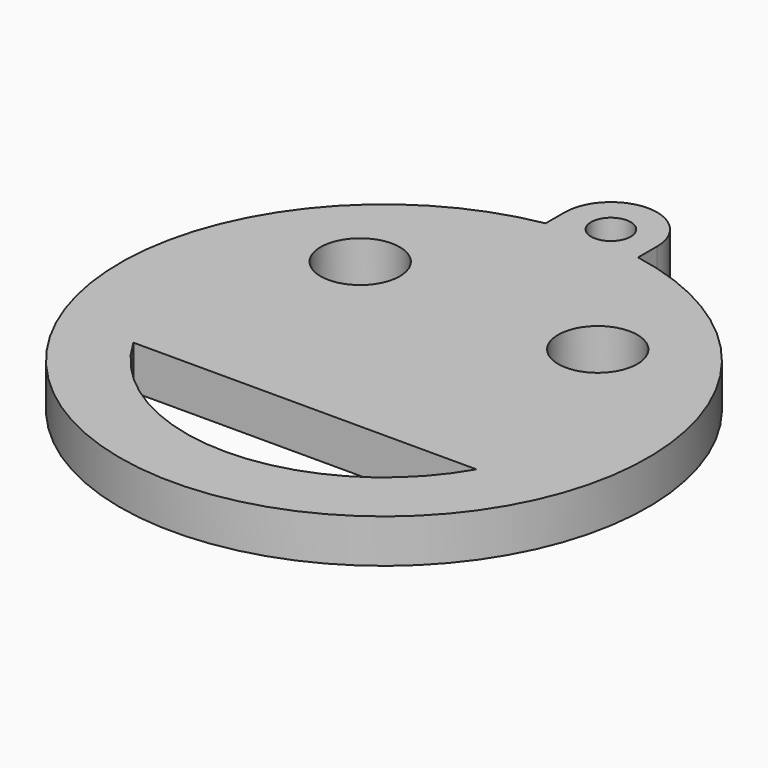
from build123d import *

# Parameters (mm, degrees)
EXTRUDE_DEPTH   = 3.3
SKETCH001_R     = 1.5
POCKET_DEPTH    = 3.301
SKETCH002_R     = 3
POCKET001_DEPTH = 5


with BuildPart() as part:
    # Sketch → Extrude (new body)
    with BuildSketch(Plane.XY):
        with BuildLine():
            ThreePointArc((3.5, 21.5), (0, 25), (-3.5, 21.5))
            Line((-3.5, 21.5), (-3.5, 19.691369))
            ThreePointArc((-3.5, 19.691369), (0, -20), (3.5, 19.691369))
            Line((3.5, 19.691369), (3.5, 21.5))
        make_face()
    extrude(amount=EXTRUDE_DEPTH)

    # Sketch001 → Pocket (cut, through all)
    with BuildSketch(Plane.XY.offset(3.3)):
        with Locations((0, 21.5)):
            Circle(SKETCH001_R)
    extrude(amount=-POCKET_DEPTH, mode=Mode.SUBTRACT)

    # Sketch002 → Pocket001 (cut)
    with BuildSketch(Plane.XY.offset(3.3)):
        with Locations((-9, 9)):
            Circle(SKETCH002_R)
        with Locations((9, 9)):
            Circle(SKETCH002_R)
        with BuildLine():
            Line((-13, -7.483315), (13, -7.483315))
            ThreePointArc((-13, -7.483315), (0, -15), (13, -7.483315))
        make_face()
    extrude(amount=-POCKET001_DEPTH, mode=Mode.SUBTRACT)


solid = part.part
